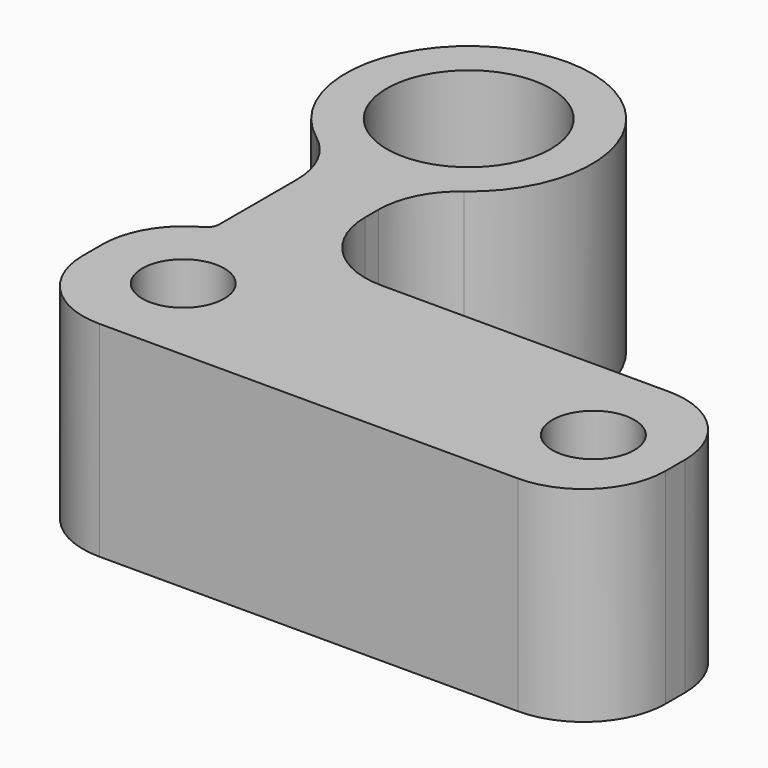
from build123d import *

# Parameters (mm, degrees)
F0_R     = 5
F0_R_2   = 10
F1_DEPTH = 25
F2_DEPTH = 25


with BuildPart() as f1:
    # F0 (on Top) → F1 (new body)
    with BuildSketch(Plane.XY):
        with BuildLine():
            Line((-3.386358, -5.247972), (-35.82144, -5.247972))
            Line((-35.82144, -5.247972), (-38.395227, -5.247972))
            ThreePointArc((-38.395227, -5.247972), (-45.466295, -2.319039), (-48.395227, 4.752028))
            Line((-48.395227, 4.752028), (-48.395227, 6.783576))
            ThreePointArc((-48.395227, 6.783576), (-47.339499, 11.255712), (-44.395227, 14.783576))
            ThreePointArc((-44.395227, 14.783576), (-53.418409, 41.783558), (-62.358093, 14.755815))
            ThreePointArc((-62.358093, 14.755815), (-59.395988, 11.223261), (-58.333337, 6.737308))
            Line((-58.333337, 6.737308), (-58.333337, -5.047764))
            ThreePointArc((-58.333337, -5.047764), (-58.555994, -5.852135), (-59.160577, -6.427519))
            ThreePointArc((-59.160577, -6.427519), (-63.02554, -10.105816), (-64.44893, -15.247972))
            Line((-64.44893, -15.247972), (-64.44893, -18.20633))
            ThreePointArc((-64.44893, -18.20633), (-61.519998, -25.277397), (-54.44893, -28.20633))
            Line((-54.44893, -28.20633), (-3.386358, -28.20633))
            ThreePointArc((-3.386358, -28.20633), (3.684709, -25.277397), (6.613642, -18.20633))
            Line((6.613642, -18.20633), (6.613642, -16.727151))
            Line((6.613642, -16.727151), (6.613642, -15.247972))
            ThreePointArc((6.613642, -15.247972), (3.684709, -8.176904), (-3.386358, -5.247972))
        make_face()
        with Locations((-53.395227, -16.727151)):
            Circle(F0_R, mode=Mode.SUBTRACT)
        with Locations((-3.386358, -16.727151)):
            Circle(F0_R, mode=Mode.SUBTRACT)
        with Locations((-53.395227, 26.783576)):
            Circle(F0_R_2, mode=Mode.SUBTRACT)
    extrude(amount=F1_DEPTH)

    # F0 (on Top) → F2 (join)
    with BuildSketch(Plane.XY):
        with BuildLine():
            Line((-3.386358, -5.247972), (-35.82144, -5.247972))
            Line((-35.82144, -5.247972), (-38.395227, -5.247972))
            ThreePointArc((-38.395227, -5.247972), (-45.466295, -2.319039), (-48.395227, 4.752028))
            Line((-48.395227, 4.752028), (-48.395227, 6.783576))
            ThreePointArc((-48.395227, 6.783576), (-47.339499, 11.255712), (-44.395227, 14.783576))
            ThreePointArc((-44.395227, 14.783576), (-53.418409, 41.783558), (-62.358093, 14.755815))
            ThreePointArc((-62.358093, 14.755815), (-59.395988, 11.223261), (-58.333337, 6.737308))
            Line((-58.333337, 6.737308), (-58.333337, -5.047764))
            ThreePointArc((-58.333337, -5.047764), (-58.555994, -5.852135), (-59.160577, -6.427519))
            ThreePointArc((-59.160577, -6.427519), (-63.02554, -10.105816), (-64.44893, -15.247972))
            Line((-64.44893, -15.247972), (-64.44893, -18.20633))
            ThreePointArc((-64.44893, -18.20633), (-61.519998, -25.277397), (-54.44893, -28.20633))
            Line((-54.44893, -28.20633), (-3.386358, -28.20633))
            ThreePointArc((-3.386358, -28.20633), (3.684709, -25.277397), (6.613642, -18.20633))
            Line((6.613642, -18.20633), (6.613642, -16.727151))
            Line((6.613642, -16.727151), (6.613642, -15.247972))
            ThreePointArc((6.613642, -15.247972), (3.684709, -8.176904), (-3.386358, -5.247972))
        make_face()
        with Locations((-53.395227, -16.727151)):
            Circle(F0_R, mode=Mode.SUBTRACT)
        with Locations((-3.386358, -16.727151)):
            Circle(F0_R, mode=Mode.SUBTRACT)
        with Locations((-53.395227, 26.783576)):
            Circle(F0_R_2, mode=Mode.SUBTRACT)
    extrude(amount=F2_DEPTH)


solid = f1.part
